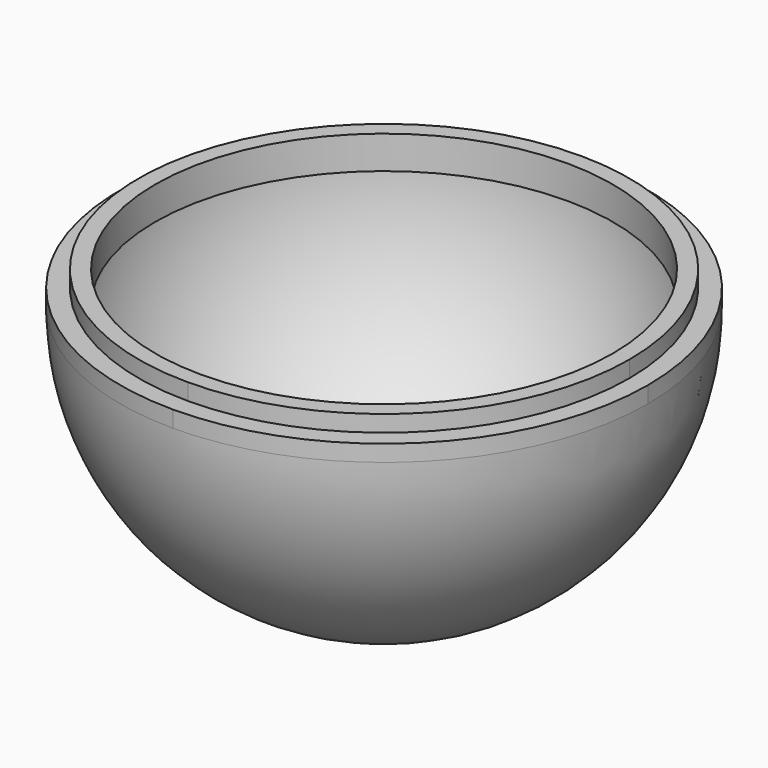
from build123d import *

# Parameters (mm, degrees)
F1_ANGLE = 180
F2_DEPTH = 2.54
F3_DEPTH = 5.08


with BuildPart() as f1:
    # F0 (on Top) → F1 (revolve)
    with BuildSketch(Plane.XY):
        with BuildLine():
            ThreePointArc((0, -39.37), (-39.37, 0), (0, 39.37))
            Line((0, 39.37), (0, 40.64))
            ThreePointArc((0, 40.64), (-40.64, 0), (0, -40.64))
            Line((0, -40.64), (0, -39.37))
        make_face()
    revolve(axis=Axis((0, 7.1776621044, 0), (0, -1, 0)), revolution_arc=F1_ANGLE)

    # F0 (on Top) → F2 (join)
    with BuildSketch(Plane.XY):
        with BuildLine():
            Line((0, 40.64), (0, 39.37))
            ThreePointArc((0, 39.37), (27.8387939753, 27.8387939753), (39.37, 0))
            ThreePointArc((39.37, 0), (27.8387939753, -27.8387939753), (0, -39.37))
            Line((0, -39.37), (0, -40.64))
            ThreePointArc((0, -40.64), (28.7368195874, -28.7368195874), (40.64, 0))
            ThreePointArc((40.64, 0), (28.7368195874, 28.7368195874), (0, 40.64))
        make_face()
        with BuildLine():
            ThreePointArc((0, 35.2425), (24.920210736, 24.920210736), (35.2425, 0))
            ThreePointArc((35.2425, 0), (24.920210736, -24.920210736), (0, -35.2425))
            Line((0, -35.2425), (0, -37.7825))
            ThreePointArc((0, -37.7825), (26.7162619602, -26.7162619602), (37.7825, 0))
            ThreePointArc((37.7825, 0), (26.7162619602, 26.7162619602), (0, 37.7825))
            Line((0, 37.7825), (0, 35.2425))
        make_face()
        with BuildLine():
            ThreePointArc((0, -39.37), (-39.37, 0), (0, 39.37))
            Line((0, 39.37), (0, 40.64))
            ThreePointArc((0, 40.64), (-40.64, 0), (0, -40.64))
            Line((0, -40.64), (0, -39.37))
        make_face()
        with BuildLine():
            ThreePointArc((0, -35.2425), (-35.2425, 0), (0, 35.2425))
            Line((0, 35.2425), (0, 37.7825))
            ThreePointArc((0, 37.7825), (-37.7825, 0), (0, -37.7825))
            Line((0, -37.7825), (0, -35.2425))
        make_face()
        with BuildLine():
            ThreePointArc((0, -37.7825), (-37.7825, 0), (0, 37.7825))
            Line((0, 37.7825), (0, 39.37))
            ThreePointArc((0, 39.37), (-39.37, 0), (0, -39.37))
            Line((0, -39.37), (0, -37.7825))
        make_face()
        with BuildLine():
            Line((0, 39.37), (0, 37.7825))
            ThreePointArc((0, 37.7825), (26.7162619602, 26.7162619602), (37.7825, 0))
            ThreePointArc((37.7825, 0), (26.7162619602, -26.7162619602), (0, -37.7825))
            Line((0, -37.7825), (0, -39.37))
            ThreePointArc((0, -39.37), (27.8387939753, -27.8387939753), (39.37, 0))
            ThreePointArc((39.37, 0), (27.8387939753, 27.8387939753), (0, 39.37))
        make_face()
    extrude(amount=F2_DEPTH)

    # F0 (on Top) → F3 (join)
    with BuildSketch(Plane.XY):
        with BuildLine():
            ThreePointArc((0, 35.2425), (24.920210736, 24.920210736), (35.2425, 0))
            ThreePointArc((35.2425, 0), (24.920210736, -24.920210736), (0, -35.2425))
            Line((0, -35.2425), (0, -37.7825))
            ThreePointArc((0, -37.7825), (26.7162619602, -26.7162619602), (37.7825, 0))
            ThreePointArc((37.7825, 0), (26.7162619602, 26.7162619602), (0, 37.7825))
            Line((0, 37.7825), (0, 35.2425))
        make_face()
        with BuildLine():
            ThreePointArc((0, -35.2425), (-35.2425, 0), (0, 35.2425))
            Line((0, 35.2425), (0, 37.7825))
            ThreePointArc((0, 37.7825), (-37.7825, 0), (0, -37.7825))
            Line((0, -37.7825), (0, -35.2425))
        make_face()
    extrude(amount=F3_DEPTH)


solid = f1.part
